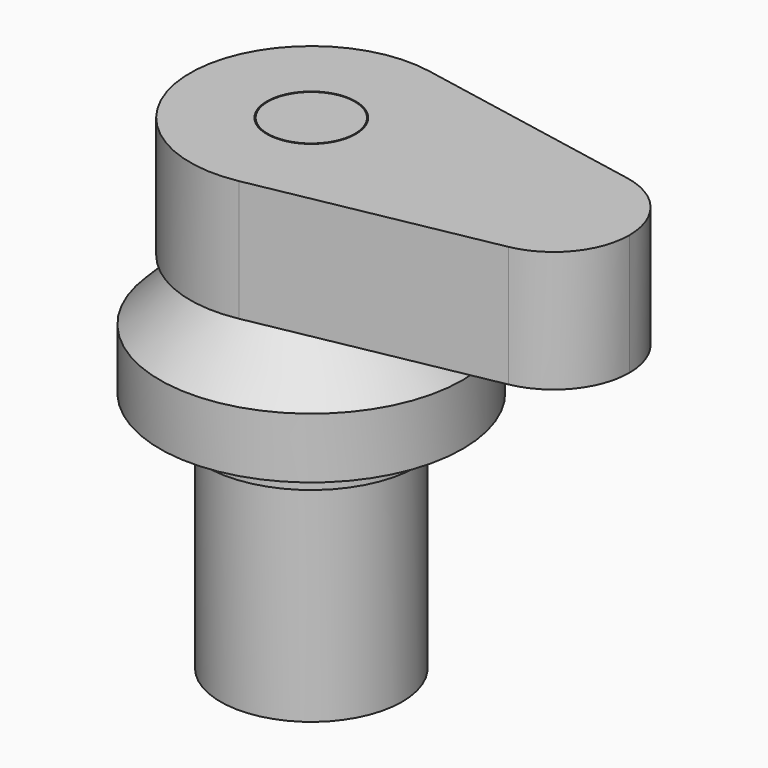
from build123d import *

# Parameters (mm, degrees)
F0_W     = 9.1186
F0_H     = 25.4
F3_R     = 9.3218
F4_DEPTH = 25.4


with BuildPart() as f1:
    # F0 (on Front) → F1 (revolve)
    with BuildSketch(Plane.XZ):
        Polygon((2.682442, 30.704564), (-6.842558, 30.704564), (-0.492558, 24.354564), (-0.492558, -39.145436), (-0.898958, -39.145436), (-16.367558, -39.145436), (-16.367558, -45.495436), (2.682442, -45.495436), (2.682442, -1.045436), (5.857442, -1.045436), (5.857442, 5.304564), (15.382442, 5.304564), (15.382442, 18.004564), align=None)
    revolve(axis=Axis((-16.367558, 0, -15.134403), (0, 0, -1)))


with BuildPart() as f2:
    # F0 (on Front) → F2 (revolve)
    with BuildSketch(Plane.XZ):
        with Locations((-11.808258, 43.404564)):
            Rectangle(F0_W, F0_H)
        Polygon((-7.248958, -31.773925), (-7.248958, 30.704564), (-16.367558, 30.704564), (-16.367558, -39.145436), (-0.898958, -39.145436), (-0.898958, -31.773925), align=None)
    revolve(axis=Axis((-16.367558, 0, 43.404564), (0, 0, 1)))


with BuildPart() as f4:
    # F3 (on face) → F4 (new body)
    with BuildSketch(Plane.XY.offset(56.104564)):
        with BuildLine():
            ThreePointArc((-11.605058, -24.949521), (3.204457, -16.189387), (9.032442, 0))
            ThreePointArc((9.032442, 0), (3.204457, 16.189387), (-11.605058, 24.949521))
            ThreePointArc((-11.605058, 24.949521), (-41.767558, 0), (-11.605058, -24.949521))
        make_face()
        with Locations((-16.367558, 0)):
            Circle(F3_R, mode=Mode.SUBTRACT)
        with BuildLine():
            ThreePointArc((-11.605058, 24.949521), (3.204457, 16.189387), (9.032442, 0))
            ThreePointArc((9.032442, 0), (3.204457, -16.189387), (-11.605058, -24.949521))
            Line((-11.605058, -24.949521), (37.409005, -15.593451))
            ThreePointArc((37.409005, -15.593451), (18.557442, 0), (37.409005, 15.593451))
            Line((37.409005, 15.593451), (-11.605058, 24.949521))
        make_face()
        with BuildLine():
            ThreePointArc((50.307442, 0), (46.664951, 10.118367), (37.409005, 15.593451))
            ThreePointArc((37.409005, 15.593451), (18.557442, 0), (37.409005, -15.593451))
            ThreePointArc((37.409005, -15.593451), (46.664951, -10.118367), (50.307442, 0))
        make_face()
    extrude(amount=-F4_DEPTH)


solid = Compound([f1.part, f2.part, f4.part])
